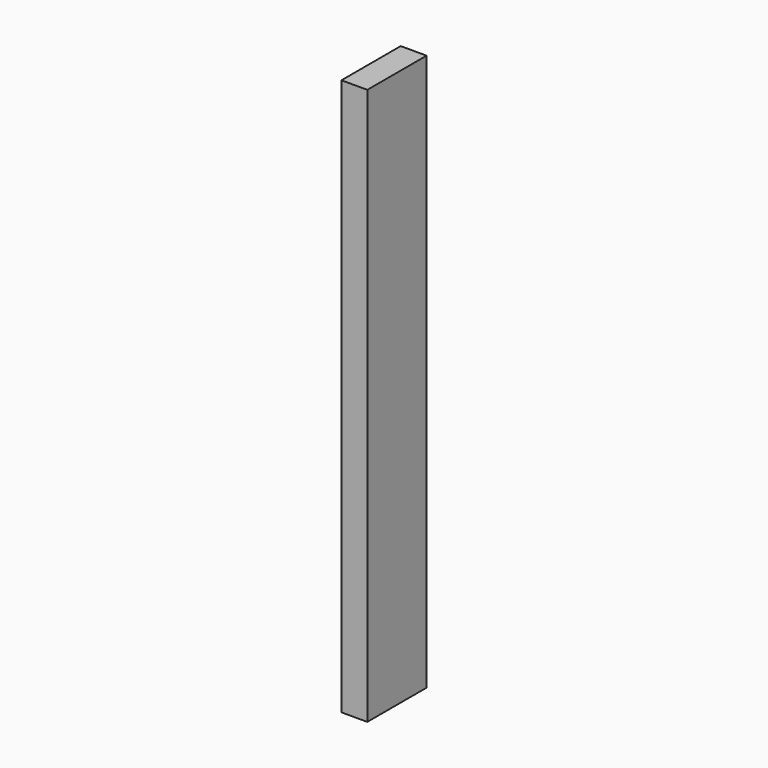
from build123d import *

# Parameters (mm, degrees)
SKETCH004_W   = 6.986389
SKETCH004_H   = 150.297339
EXTRUDE_DEPTH = 10


with BuildPart() as part:
    # Sketch004 → Extrude (new body, symmetric)
    with BuildSketch(Plane.XZ):
        with Locations((-26.96687, 69.107449)):
            Rectangle(SKETCH004_W, SKETCH004_H)
    extrude(amount=EXTRUDE_DEPTH, both=True)


with BuildPart() as part_1:
    # Extrude placement: moved
    add(part.part.moved(Location((0, 0, -90))))


solid = part_1.part
